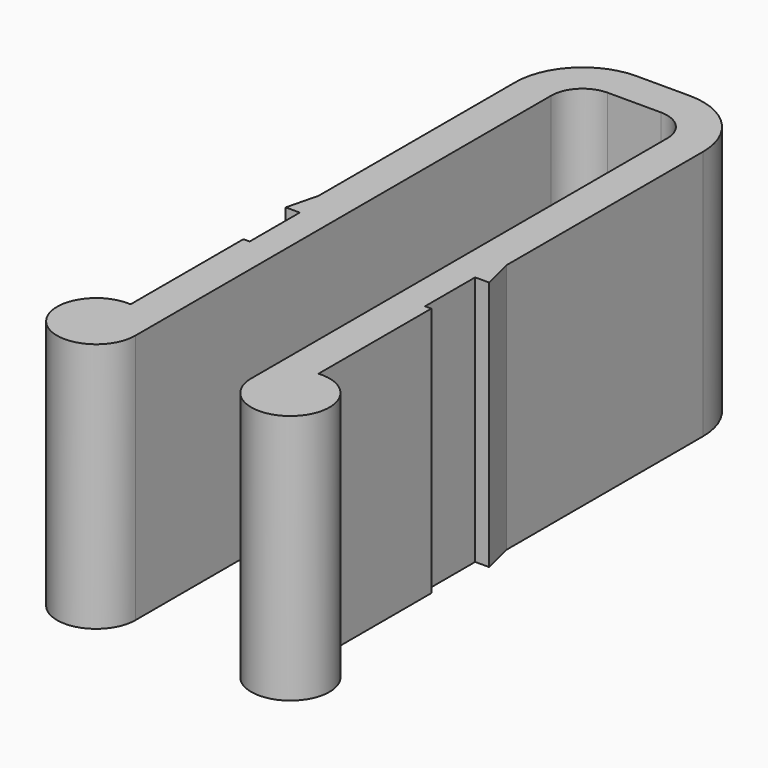
from build123d import *

# Parameters (mm, degrees)
F1_DEPTH = 4


with BuildPart() as f1:
    # F0 (on Top) → F1 (new body, symmetric)
    with BuildSketch(Plane.XY):
        with BuildLine():
            Line((-0.85, -1.15), (0, -1.15))
            Line((0, -1.15), (0, 0))
            Line((0, 0), (-0.85, 0))
            ThreePointArc((-0.85, 0), (-2.37028, -0.62972), (-3, -2.15))
            Line((-3, -2.15), (-3, -10))
            Line((-3, -10), (-3.25, -11))
            Line((-3.25, -11), (-2.8, -11))
            Line((-2.8, -11), (-2.8, -13))
            Line((-2.8, -13), (-3, -13))
            Line((-3, -13), (-3, -17.504006))
            ThreePointArc((-3, -17.504006), (-4.018559, -19.597791), (-1.85, -18.75))
            Line((-1.85, -18.75), (-1.85, -2.15))
            ThreePointArc((-1.85, -2.15), (-1.557107, -1.442893), (-0.85, -1.15))
        make_face()
        with BuildLine():
            Line((0, 0), (0, -1.15))
            Line((0, -1.15), (0.85, -1.15))
            ThreePointArc((0.85, -1.15), (1.557107, -1.442893), (1.85, -2.15))
            Line((1.85, -2.15), (1.85, -18.75))
            ThreePointArc((1.85, -18.75), (4.018559, -19.597791), (3, -17.504006))
            Line((3, -17.504006), (3, -13))
            Line((3, -13), (2.8, -13))
            Line((2.8, -13), (2.8, -11))
            Line((2.8, -11), (3.25, -11))
            Line((3.25, -11), (3, -10))
            Line((3, -10), (3, -2.15))
            ThreePointArc((3, -2.15), (2.37028, -0.62972), (0.85, 0))
            Line((0.85, 0), (0, 0))
        make_face()
    extrude(amount=F1_DEPTH, both=True)


solid = f1.part
